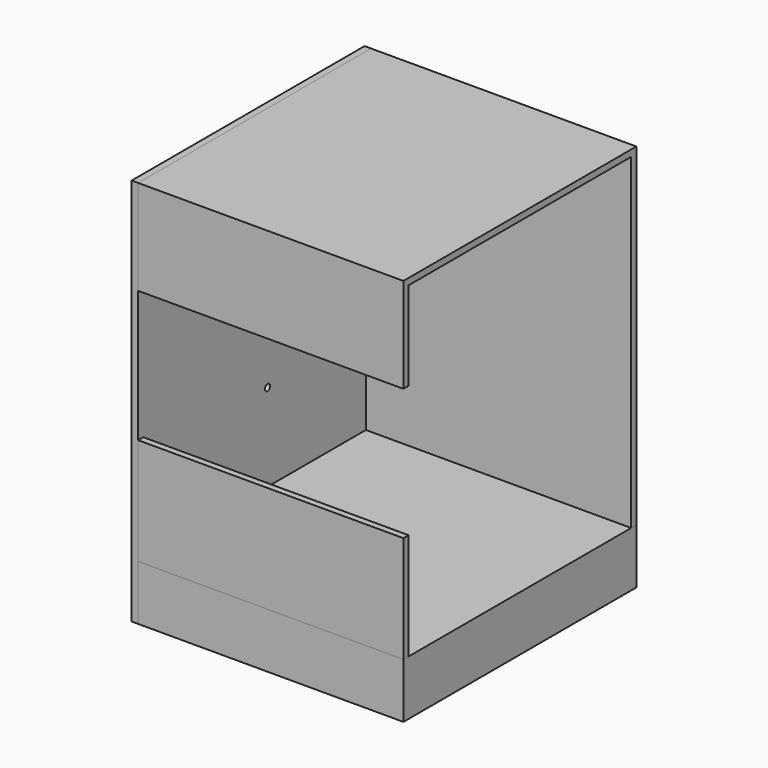
from build123d import *

# Parameters (mm, degrees)
F0_W     = 10
F0_H     = 136.7661619186
F0_H_2   = 240
F1_DEPTH = 410
F2_DEPTH = 10
F3_R     = 5
F4_DEPTH = 25
F6_W     = 359.0383380651
F6_H     = 124.2373585701
F7_DEPTH = 25
F5_W     = 410
F5_H     = 135.0524842739
F5_H_2   = 190.710157156
F5_H_3   = 124.2373585701
F8_DEPTH = 85


with BuildPart() as f1:
    # F0 (on Right) → F1 (new body)
    with BuildSketch(Plane.YZ):
        with Locations((5, 521.6169190407)):
            Rectangle(F0_W, F0_H)
        Polygon((440, 10), (450, 10), (450, 600), (440, 600), (440, 590), align=None)
        Polygon((440, 590), (440, 600), (0, 600), (0, 590), (10, 590), align=None)
        with Locations((5, 130)):
            Rectangle(F0_W, F0_H_2)
        Polygon((0, 10), (0, 0), (450, 0), (450, 10), (440, 10), (10, 10), align=None)
    extrude(amount=F1_DEPTH)

    # F6 (on face) → F7 (cut)
    with BuildSketch(Plane(origin=(0, 0, 0), x_dir=(1, 0, 0), z_dir=(0, 0, -1))):
        with Locations((203.4892514348, -252.828836441)):
            Rectangle(F6_W, F6_H)
    extrude(amount=-F7_DEPTH, mode=Mode.SUBTRACT)


with BuildPart() as f2:
    # F0 (on Right) → F2 (new body)
    with BuildSketch(Plane.YZ):
        Polygon((440, 590), (440, 600), (0, 600), (0, 590), (10, 590), align=None)
        with Locations((5, 521.6169190407)):
            Rectangle(F0_W, F0_H)
        Polygon((440, 10), (450, 10), (450, 600), (440, 600), (440, 590), align=None)
        with Locations((5, 130)):
            Rectangle(F0_W, F0_H_2)
        Polygon((0, 10), (0, 0), (450, 0), (450, 10), (440, 10), (10, 10), align=None)
        Polygon((0, 453.2338380814), (0, 250), (10, 250), (10, 10), (440, 10), (440, 590), (10, 590), (10, 453.2338380814), align=None)
    extrude(amount=-F2_DEPTH)

    # F3 (on face) → F4 (cut)
    with BuildSketch(Plane(origin=(-10, 0, 0), x_dir=(0, -1, 0), z_dir=(-1, 0, 0))):
        with Locations((-250, 220)):
            Circle(F3_R)
    extrude(amount=-F4_DEPTH, mode=Mode.SUBTRACT)


with BuildPart() as f8:
    # F5 (on face) → F8 (new body)
    with BuildSketch(Plane(origin=(0, 0, 0), x_dir=(1, 0, 0), z_dir=(0, 0, -1))):
        with Locations((205, -382.473757863)):
            Rectangle(F5_W, F5_H)
        with Locations((205, -95.355078578)):
            Rectangle(F5_W, F5_H_2)
        with Locations((205, -252.828836441)):
            Rectangle(F5_W, F5_H_3)
    extrude(amount=-F8_DEPTH)


solid = Compound([f1.part, f2.part, f8.part])
